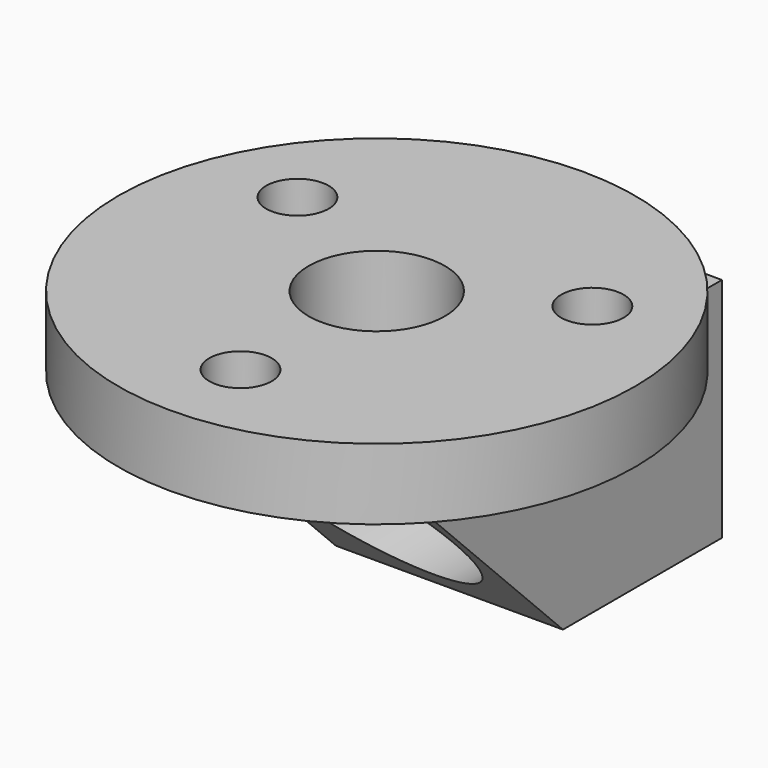
from build123d import *

# Parameters (mm, degrees)
SKETCH045_R             = 9.1
PAD026_DEPTH            = 2.5
SKETCH044_R             = 1.1
SKETCH044_R_2           = 2.4
POCKET042_DEPTH         = 2.5
SKETCH046_W             = 8
SKETCH046_H             = 15
PAD027_DEPTH            = 8
POCKET043_DEPTH         = 8
SKETCH048_R             = 2.4
POCKET044_DEPTH         = 8
SKETCH049_R             = 3.6
POCKET045_DEPTH         = 20
BODY016_PLACEMENT_ANGLE = 180


with BuildPart() as part:
    # Sketch045 → Pad026 (new body)
    with BuildSketch(Plane.XY):
        Circle(SKETCH045_R)
    extrude(amount=PAD026_DEPTH)

    # Sketch044 (on Face3 of Pad026) → Pocket042 (cut)
    with BuildSketch(Plane.XY.offset(2.5)):
        with Locations((0, 6)):
            Circle(SKETCH044_R)
        with Locations((5.195, -3.001995)):
            Circle(SKETCH044_R)
        with Locations((-5.195, -3.001995)):
            Circle(SKETCH044_R)
        Circle(SKETCH044_R_2)
    extrude(amount=-POCKET042_DEPTH, mode=Mode.SUBTRACT)

    # Sketch046 (on Face2 of Pocket042) → Pad027 (join)
    with BuildSketch(Plane(origin=(0, 0, 0), x_dir=(1, 0, 0), z_dir=(0, 0, -1))):
        with Locations((0, 2.7)):
            Rectangle(SKETCH046_W, SKETCH046_H)
    extrude(amount=PAD027_DEPTH)

    # Sketch047 (on Face7 of Pad027) → Pocket043 (cut)
    with BuildSketch(Plane(origin=(-4, 0, 0), x_dir=(0, -1, 0), z_dir=(-1, 0, 0))):
        Polygon((-4.8, 0), (3.2, -8), (-4.8, -8), align=None)
    extrude(amount=-POCKET043_DEPTH, mode=Mode.SUBTRACT)

    # Sketch048 (on Face14 of Pocket043) → Pocket044 (cut)
    with BuildSketch(Plane.XY):
        Circle(SKETCH048_R)
    extrude(amount=-POCKET044_DEPTH, mode=Mode.SUBTRACT)

    # Sketch049 (on Face11 of Pocket044) → Pocket045 (cut)
    with BuildSketch(Plane.XZ.offset(10.2)):
        with Locations((0, -3.7)):
            Circle(SKETCH049_R)
    extrude(amount=-POCKET045_DEPTH, mode=Mode.SUBTRACT)


with BuildPart() as part_1:
    # Body016 placement: moved
    add(part.part.moved(Location((-81.5, -70, 9.25))).rotate(Axis((-81.5, -70, 9.25), (0, 0, 1)), BODY016_PLACEMENT_ANGLE))


solid = part_1.part
